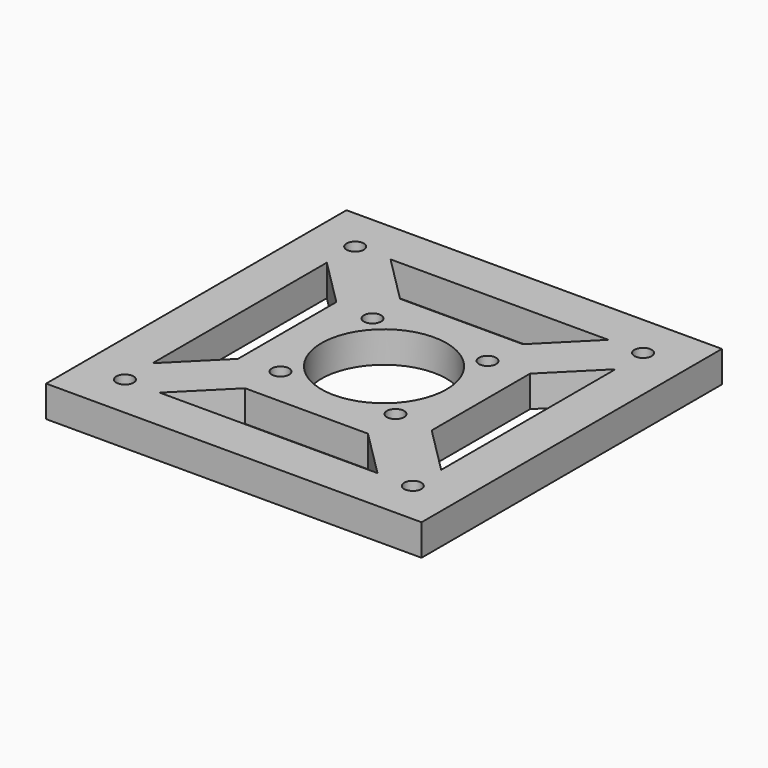
from build123d import *

# Parameters (mm, degrees)
F0_W     = 120
F0_H     = 120
F0_R     = 2.75
F0_R_2   = 20
F1_DEPTH = 10


with BuildPart() as f1:
    # F0 (on Top) → F1 (new body)
    with BuildSketch(Plane.XY):
        Rectangle(F0_W, F0_H)
        with Locations((-46, -46)):
            Circle(F0_R, mode=Mode.SUBTRACT)
        with Locations((-18.384776, -18.384776)):
            Circle(F0_R, mode=Mode.SUBTRACT)
        Polygon((-19.643803, -30.957512), (19.643803, -30.957512), (34.813541, -46.127249), (-34.813541, -46.127249), align=None, mode=Mode.SUBTRACT)
        with Locations((46, -46)):
            Circle(F0_R, mode=Mode.SUBTRACT)
        with Locations((18.384776, -18.384776)):
            Circle(F0_R, mode=Mode.SUBTRACT)
        Polygon((-46.127249, 34.813541), (-30.957512, 19.643803), (-30.957512, -19.643803), (-46.127249, -34.813541), align=None, mode=Mode.SUBTRACT)
        with Locations((-18.384776, 18.384776)):
            Circle(F0_R, mode=Mode.SUBTRACT)
        with Locations((-46, 46)):
            Circle(F0_R, mode=Mode.SUBTRACT)
        Circle(F0_R_2, mode=Mode.SUBTRACT)
        with Locations((18.384776, 18.384776)):
            Circle(F0_R, mode=Mode.SUBTRACT)
        Polygon((30.957512, -19.643803), (30.957512, 19.643803), (46.127249, 34.813541), (46.127249, -34.813541), align=None, mode=Mode.SUBTRACT)
        Polygon((19.643803, 30.957512), (-19.643803, 30.957512), (-34.813541, 46.127249), (34.813541, 46.127249), align=None, mode=Mode.SUBTRACT)
        with Locations((46, 46)):
            Circle(F0_R, mode=Mode.SUBTRACT)
    extrude(amount=F1_DEPTH)


solid = f1.part
